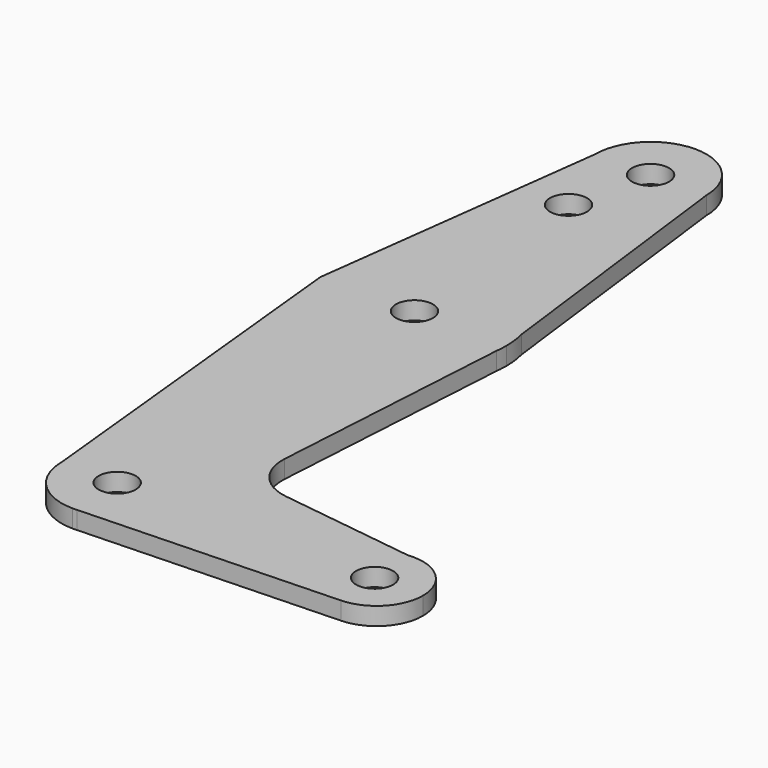
from build123d import *

# Parameters (mm, degrees)
F2_DEPTH = 3.048
F1_R     = 3.175
F3_DEPTH = 25.4


with BuildPart() as f2:
    # F0 (on Top) → F2 (new body)
    with BuildSketch(Plane.XY):
        with BuildLine():
            ThreePointArc((-9.525, 114.3), (0, 104.775), (9.525, 114.3))
            ThreePointArc((9.525, 114.3), (0, 123.825), (-9.525, 114.3))
        make_face()
        with BuildLine():
            Line((15.3863601271, 67.4178101578), (9.525, 114.3))
            ThreePointArc((9.525, 114.3), (0, 104.775), (-9.525, 114.3))
            Line((-9.525, 114.3), (-15.7474082659, 65.5180864072))
            ThreePointArc((-15.7474082659, 65.5180864072), (-0.9668642727, 79.3549450151), (15.3863601271, 67.4178101578))
        make_face()
        with BuildLine():
            Line((15.875, 63.5094157252), (15.3863601271, 67.4178101578))
            ThreePointArc((15.3863601271, 67.4178101578), (-0.9668642727, 79.3549450151), (-15.7474082659, 65.5180864072))
            ThreePointArc((-15.7474082659, 65.5180864072), (-1.9686754274, 47.7569574389), (15.757406727, 61.5807482474))
            Line((15.757406727, 61.5807482474), (15.875, 63.5094157252))
        make_face()
        with BuildLine():
            ThreePointArc((15.875, 63.5094157252), (15.7523663622, 65.4788265486), (15.3863601271, 67.4178101578))
            Line((15.3863601271, 67.4178101578), (15.875, 63.5094157252))
        make_face()
        with BuildLine():
            ThreePointArc((15.757406727, 61.5807482474), (-1.9686754274, 47.7569574389), (-15.7474082659, 65.5180864072))
            Line((-15.7474082659, 65.5180864072), (-16.0041294781, 63.5054650141))
            Line((-16.0041294781, 63.5054650141), (-9.525, 0))
            ThreePointArc((-9.525, 0), (0, 9.525), (9.525, 0))
            ThreePointArc((9.525, 0), (6.9705567315, -6.4912990883), (0.6773435479, -9.500885786))
            Line((0.6773435479, -9.500885786), (44.7324052746, -7.9324746146))
            ThreePointArc((44.7324052746, -7.9324746146), (36.534840388, -0.5951088701), (43.5431139892, 7.8855224312))
            Line((43.5431139892, 7.8855224312), (20.0675545879, 11.0213008961))
            ThreePointArc((20.0675545879, 11.0213008961), (14.9812980786, 13.8497767403), (13.1847001184, 19.3853450624))
            Line((13.1847001184, 19.3853450624), (15.757406727, 61.5807482474))
        make_face()
        with BuildLine():
            ThreePointArc((15.757406727, 61.5807482474), (15.8455744104, 62.5432911968), (15.875, 63.5094157252))
            Line((15.875, 63.5094157252), (15.757406727, 61.5807482474))
        make_face()
        with BuildLine():
            ThreePointArc((9.525, 0), (0, 9.525), (-9.525, 0))
            ThreePointArc((-9.525, 0), (-6.7351920908, -6.7351920908), (0, -9.525))
            Line((0, -9.525), (0.6773435479, -9.500885786))
            ThreePointArc((0.6773435479, -9.500885786), (6.9705567315, -6.4912990883), (9.525, 0))
        make_face()
        with BuildLine():
            Line((0.6773435479, -9.500885786), (0, -9.525))
            ThreePointArc((0, -9.525), (0.3388863295, -9.5189695375), (0.6773435479, -9.500885786))
        make_face()
        with BuildLine():
            ThreePointArc((52.3875, 0), (49.7323052988, 5.9246229399), (43.5431139892, 7.8855224312))
            ThreePointArc((43.5431139892, 7.8855224312), (36.534840388, -0.5951088701), (44.7324052746, -7.9324746146))
            ThreePointArc((44.7324052746, -7.9324746146), (50.1616327839, -5.5119104847), (52.3875, 0))
        make_face()
    extrude(amount=F2_DEPTH)

    # F1 (on Top) → F3 (cut)
    with BuildSketch(Plane.XY):
        with Locations((0, 114.2455935478)):
            Circle(F1_R)
        with Locations((-3.1374774408, 100.5883514881)):
            Circle(F1_R)
        with Locations((0, 63.6768862605)):
            Circle(F1_R)
        with Locations((44.1092029214, 0)):
            Circle(F1_R)
        Circle(F1_R)
    extrude(amount=F3_DEPTH, mode=Mode.SUBTRACT)


solid = f2.part
